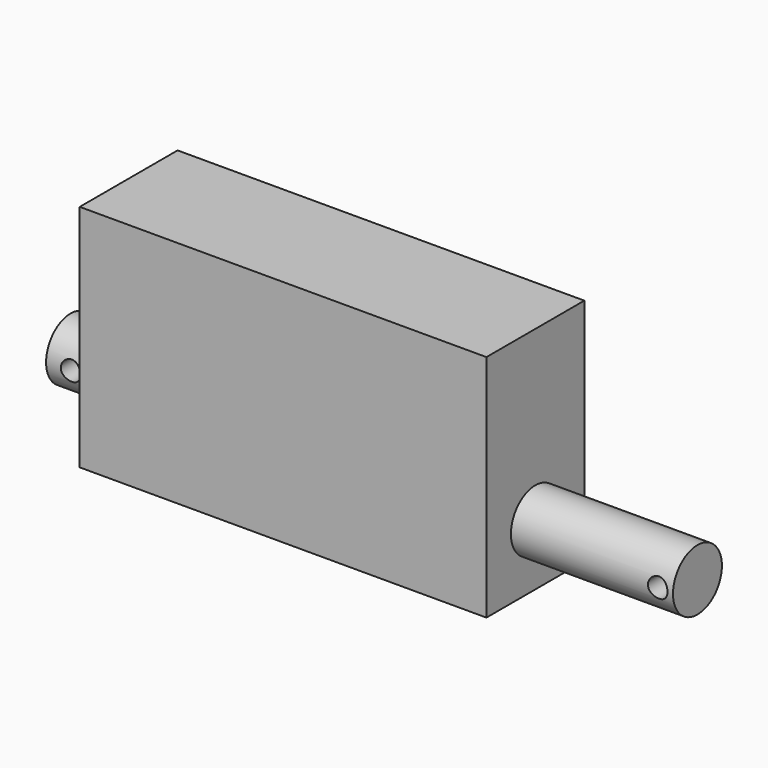
from build123d import *

# Parameters (mm, degrees)
F0_W     = 40
F0_H     = 75
F1_DEPTH = 133
F2_R     = 10
F3_DEPTH = 19
F4_R     = 10
F6_DEPTH = 53
F5_R     = 3.2
F7_DEPTH = 12.5


with BuildPart() as f1:
    # F0 (on Right) → F1 (new body)
    with BuildSketch(Plane.YZ):
        Rectangle(F0_W, F0_H)
    extrude(amount=F1_DEPTH)

    # F2 (on face) → F3 (join)
    with BuildSketch(Plane(origin=(0, 0, 0), x_dir=(0, -1, 0), z_dir=(-1, 0, 0))):
        with Locations((0, -17.5)):
            Circle(F2_R)
    extrude(amount=F3_DEPTH)

    # F4 (on face) → F6 (join)
    with BuildSketch(Plane.YZ.offset(133)):
        with Locations((0, -17.5)):
            Circle(F4_R)
    extrude(amount=F6_DEPTH)

    # F5 (on Front) → F7 (cut, symmetric)
    with BuildSketch(Plane.XZ):
        with Locations((-11, -17.5)):
            Circle(F5_R)
        with Locations((181, -17.5)):
            Circle(F5_R)
    extrude(amount=F7_DEPTH, both=True, mode=Mode.SUBTRACT)


solid = f1.part
